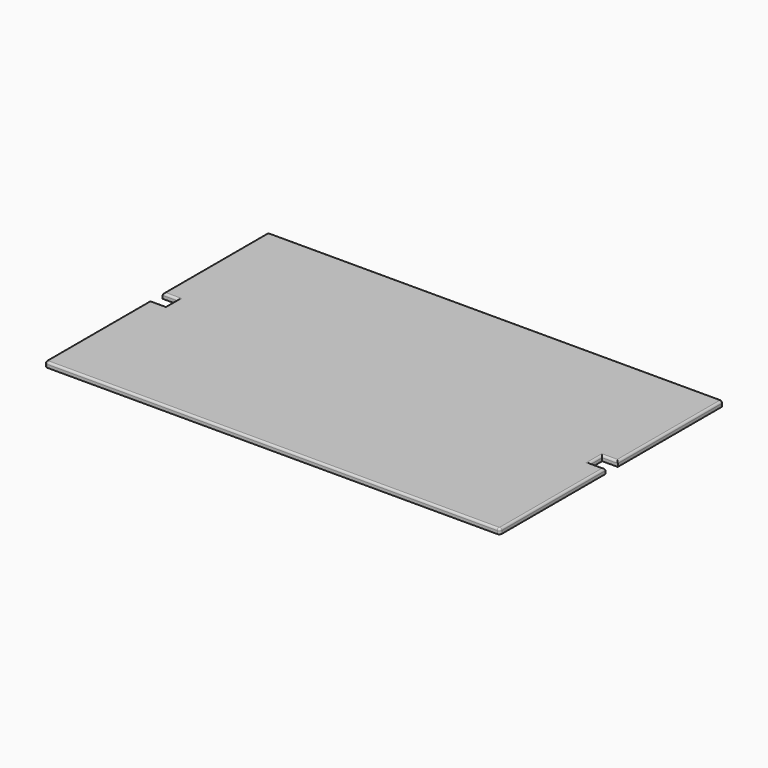
from build123d import *

# Parameters (mm, degrees)
F1_DEPTH = 12.7
F2_R     = 5.08


with BuildPart() as f1:
    # F0 (on Top) → F1 (new body)
    with BuildSketch(Plane.XY):
        with BuildLine():
            Line((-552.45, -342.9), (552.45, -342.9))
            ThreePointArc((552.45, -342.9), (556.940128, -341.040128), (558.8, -336.55))
            Line((558.8, -336.55), (558.8, -19.05))
            Line((558.8, -19.05), (520.7, -19.05))
            Line((520.7, -19.05), (520.7, 19.05))
            Line((520.7, 19.05), (558.8, 19.05))
            Line((558.8, 19.05), (558.8, 336.55))
            ThreePointArc((558.8, 336.55), (556.940128, 341.040128), (552.45, 342.9))
            Line((552.45, 342.9), (-552.45, 342.9))
            ThreePointArc((-552.45, 342.9), (-556.940128, 341.040128), (-558.8, 336.55))
            Line((-558.8, 336.55), (-558.8, 19.05))
            Line((-558.8, 19.05), (-520.7, 19.05))
            Line((-520.7, 19.05), (-520.7, -19.05))
            Line((-520.7, -19.05), (-558.8, -19.05))
            Line((-558.8, -19.05), (-558.8, -336.55))
            ThreePointArc((-558.8, -336.55), (-556.940128, -341.040128), (-552.45, -342.9))
        make_face()
    extrude(amount=F1_DEPTH)

    # F2
    f2_edges = [f1.edges().sort_by_distance(p)[0] for p in [
        (-556.940128, 341.040128, 12.7),
        (-558.8, 177.8, 12.7),
        (-539.75, 19.05, 12.7),
        (-520.7, 0, 12.7),
        (-539.75, -19.05, 12.7),
        (-558.8, -177.8, 12.7),
        (-556.940128, -341.040128, 12.7),
        (0, -342.9, 12.7),
        (556.940128, -341.040128, 12.7),
        (558.8, -177.8, 12.7),
        (539.75, -19.05, 12.7),
        (520.7, 0, 12.7),
        (539.75, 19.05, 12.7),
        (558.8, 177.8, 12.7),
        (556.940128, 341.040128, 12.7),
        (0, 342.9, 12.7),
    ]]
    fillet(f2_edges, radius=F2_R)


solid = f1.part
